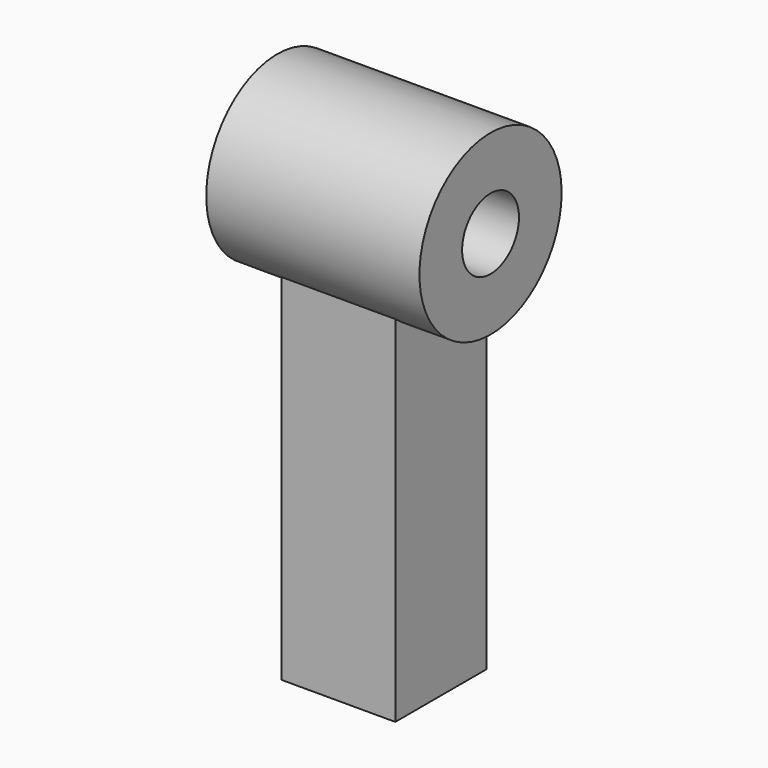
from build123d import *

# Parameters (mm, degrees)
F0_W     = 32
F0_H     = 32
F0_W_2   = 26
F0_H_2   = 26
F1_DEPTH = 100
F2_R     = 25
F2_R_2   = 10
F3_DEPTH = 30


with BuildPart() as f1:
    # F0 (on Top) → F1 (new body)
    with BuildSketch(Plane.XY):
        Rectangle(F0_W, F0_H)
        Rectangle(F0_W_2, F0_H_2, mode=Mode.SUBTRACT)
    extrude(amount=-F1_DEPTH)

    # F2 (on Right) → F3 (join, symmetric)
    with BuildSketch(Plane.YZ):
        with Locations((0, 19)):
            Circle(F2_R)
        with Locations((0, 19)):
            Circle(F2_R_2, mode=Mode.SUBTRACT)
    extrude(amount=F3_DEPTH, both=True)


solid = f1.part
